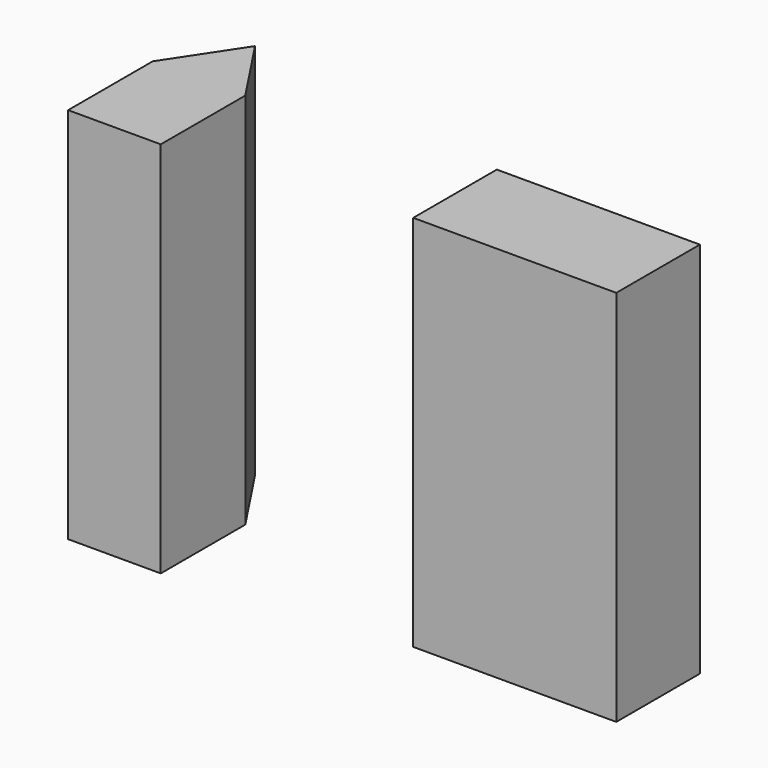
from build123d import *

# Parameters (mm, degrees)
F0_W     = 40.963201
F0_H     = 21.080477
F1_DEPTH = 76.2
F2_W     = 18.684976
F2_H     = 21.32003
F3_DEPTH = 76.2


with BuildPart() as f1:
    # F0 (on Top) → F1 (new body)
    with BuildSketch(Plane.XY):
        with Locations((25.272619, 33.776675)):
            Rectangle(F0_W, F0_H)
    extrude(amount=F1_DEPTH)


with BuildPart() as f3:
    # F2 (on Top) → F3 (new body)
    with BuildSketch(Plane.XY):
        with Locations((-51.263891, 28.626334)):
            Rectangle(F2_W, F2_H)
        Polygon((-51.263891, 53.419851), (-60.606379, 39.286349), (-41.921403, 39.286349), align=None)
    extrude(amount=F3_DEPTH)


solid = Compound([f1.part, f3.part])
